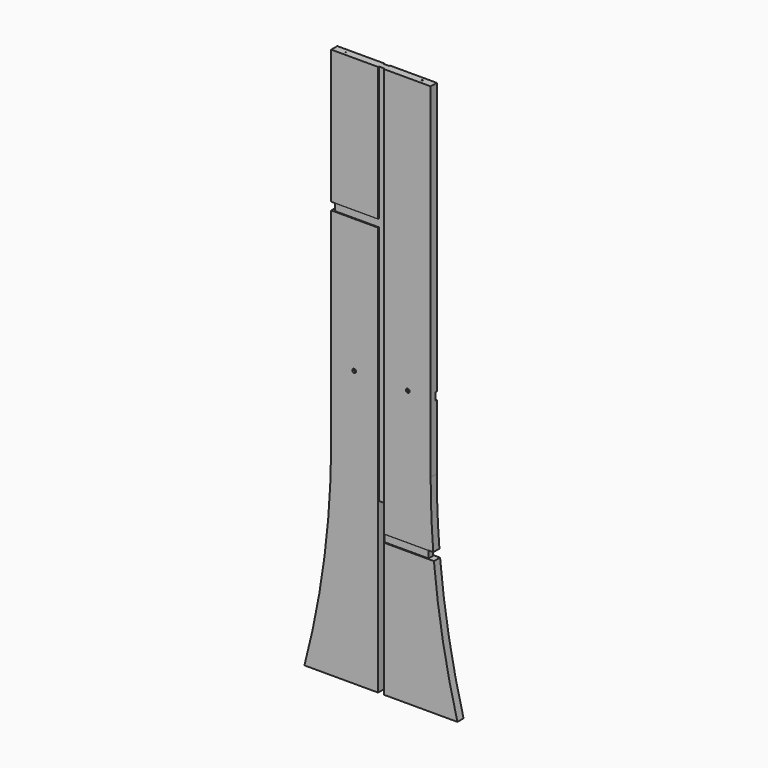
from build123d import *

# Parameters (mm, degrees)
F1_DEPTH       = 12.7
F28_W          = 19.05
F28_H          = 558.8
F29_DEPTH      = 25.4
F3_D           = 3.175
F3_DEPTH       = 63.5
F3_CBORE_D     = 12.7
F3_CBORE_DEPTH = 6.35
F3_TIP         = 0.9538662327
F5_D           = 3.175
F5_DEPTH       = 63.5
F5_TIP         = 0.9538662327
F7_D           = 3.175
F7_DEPTH       = 63.5
F7_TIP         = 0.9538662327
F8_W           = 330.2
F8_H           = 25.4
F9_DEPTH       = 6.35
F10_W          = 19.05
F10_H          = 1270
F11_DEPTH      = 3.175
F12_W          = 19.05
F12_H          = 342.9
F13_DEPTH      = 3.175
F14_W          = 19.05
F14_H          = 901.7
F15_DEPTH      = 3.175
F17_W          = 50.8
F17_H          = 25.4
F18_DEPTH      = 25.4
F16_W          = 193.68262
F16_H          = 12.7
F19_DEPTH      = 3.175
F20_W          = 203.2
F20_H          = 25.4
F21_DEPTH      = 3.175
F22_W          = 19.05
F22_H          = 25.4
F23_DEPTH      = 25.4
F24_W          = 158.75
F24_H          = 25.4
F25_DEPTH      = 3.175
F26_W          = 158.75
F26_H          = 25.4
F27_DEPTH      = 3.175


with BuildPart() as f1:
    # F0 (on Front) → F1 (new body, symmetric)
    with BuildSketch(Plane.XZ):
        with BuildLine():
            Line((165.1, 1828.8), (0, 1828.8))
            Line((0, 1828.8), (-165.1, 1828.8))
            Line((-165.1, 1828.8), (-165.1, 685.8))
            ThreePointArc((-165.1, 685.8), (-187.4175900274, 340.0309838924), (-254, 0))
            Line((-254, 0), (0, 0))
            Line((0, 0), (254, 0))
            ThreePointArc((254, 0), (187.4175900273, 340.0309838924), (165.1, 685.8))
            Line((165.1, 685.8), (165.1, 1828.8))
        make_face()
    extrude(amount=F1_DEPTH, both=True)

    # F28 (on face) → F29 (cut)
    with BuildSketch(Plane.XZ.offset(12.7)):
        with Locations((0, 279.4)):
            Rectangle(F28_W, F28_H)
    extrude(amount=-F29_DEPTH, mode=Mode.SUBTRACT)

    # F3
    with Locations(Plane.XZ.offset(12.7)):
        with Locations((-88.9, 914.4), (88.9, 914.4)):
            CounterBoreHole(F3_D / 2, F3_CBORE_D / 2, F3_CBORE_DEPTH, depth=F3_DEPTH)
            with Locations((0, 0, -(F3_DEPTH + F3_TIP / 2))):  # 118° drill point
                Cone(0, F3_D / 2, F3_TIP, mode=Mode.SUBTRACT)

    # F5
    with Locations(Plane.XY.offset(1828.8)):
        with Locations((-127, 0), (127, 0)):
            Hole(F5_D / 2, depth=F5_DEPTH)
            with Locations((0, 0, -(F5_DEPTH + F5_TIP / 2))):  # 118° drill point
                Cone(0, F5_D / 2, F5_TIP, mode=Mode.SUBTRACT)

    # F7
    with Locations(Plane(origin=(0, 0, 0), x_dir=(1, 0, 0), z_dir=(0, 0, -1))):
        with Locations((-190.5, 0), (190.5, 0)):
            Hole(F7_D / 2, depth=F7_DEPTH)
            with Locations((0, 0, -(F7_DEPTH + F7_TIP / 2))):  # 118° drill point
                Cone(0, F7_D / 2, F7_TIP, mode=Mode.SUBTRACT)

    # F8 (on face) → F9 (cut)
    with BuildSketch(Plane(origin=(0, 12.7, 0), x_dir=(-1, 0, 0), z_dir=(0, 1, 0))):
        with Locations((0, 914.4)):
            Rectangle(F8_W, F8_H)
    extrude(amount=-F9_DEPTH, mode=Mode.SUBTRACT)

    # F10 (on face) → F11 (cut)
    with BuildSketch(Plane.XZ.offset(12.7)):
        with Locations((0, 1193.8)):
            Rectangle(F10_W, F10_H)
    extrude(amount=-F11_DEPTH, mode=Mode.SUBTRACT)

    # F12 (on face) → F13 (cut)
    with BuildSketch(Plane(origin=(0, 12.7, 0), x_dir=(-1, 0, 0), z_dir=(0, 1, 0))):
        with Locations((0, 730.25)):
            Rectangle(F12_W, F12_H)
    extrude(amount=-F13_DEPTH, mode=Mode.SUBTRACT)

    # F14 (on face) → F15 (cut)
    with BuildSketch(Plane(origin=(0, 12.7, 0), x_dir=(-1, 0, 0), z_dir=(0, 1, 0))):
        with Locations((0, 1377.95)):
            Rectangle(F14_W, F14_H)
    extrude(amount=-F15_DEPTH, mode=Mode.SUBTRACT)

    # F17 (on face) → F18 (cut)
    with BuildSketch(Plane.XZ.offset(12.7)):
        with Locations((180.975, 457.2)):
            Rectangle(F17_W, F17_H)
    extrude(amount=-F18_DEPTH, mode=Mode.SUBTRACT)

    # F16 (on face) → F19 (cut)
    with BuildSketch(Plane.XZ.offset(12.7)):
        with Locations((96.84131, 463.55)):
            Rectangle(F16_W, F16_H)
        with Locations((96.84131, 450.85)):
            Rectangle(F16_W, F16_H)
    extrude(amount=-F19_DEPTH, mode=Mode.SUBTRACT)

    # F20 (on face) → F21 (cut)
    with BuildSketch(Plane(origin=(0, 12.7, 0), x_dir=(-1, 0, 0), z_dir=(0, 1, 0))):
        with Locations((-101.6, 457.2)):
            Rectangle(F20_W, F20_H)
    extrude(amount=-F21_DEPTH, mode=Mode.SUBTRACT)

    # F22 (on face) → F23 (cut)
    with BuildSketch(Plane.XZ.offset(12.7)):
        with Locations((-165.1, 1371.6)):
            Rectangle(F22_W, F22_H)
    extrude(amount=-F23_DEPTH, mode=Mode.SUBTRACT)

    # F24 (on face) → F25 (cut)
    with BuildSketch(Plane.XZ.offset(12.7)):
        with Locations((-85.725, 1371.6)):
            Rectangle(F24_W, F24_H)
    extrude(amount=-F25_DEPTH, mode=Mode.SUBTRACT)

    # F26 (on face) → F27 (cut)
    with BuildSketch(Plane(origin=(0, 12.7, 0), x_dir=(-1, 0, 0), z_dir=(0, 1, 0))):
        with Locations((85.725, 1371.6)):
            Rectangle(F26_W, F26_H)
    extrude(amount=-F27_DEPTH, mode=Mode.SUBTRACT)


solid = f1.part
